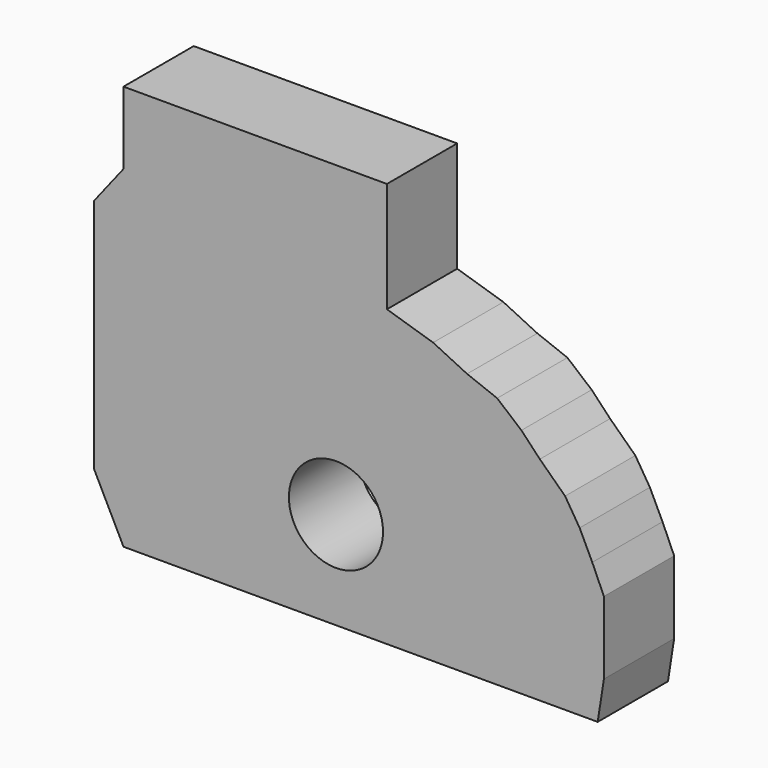
from build123d import *

# Parameters (mm, degrees)
F0_R     = 4.287711
F1_DEPTH = 8


with BuildPart() as f1:
    # F0 (on Front) → F1 (new body)
    with BuildSketch(Plane.XZ):
        Polygon((-26.700001, -21.45), (-24, -26.85), (19.200001, -26.85), (19.764978, -23.227859), (19.764978, -19.868519), (19.764978, -16.597582), (18.704133, -14.210682), (17.554885, -11.823783), (16.22883, -9.702094), (13.930335, -7.492001), (12.250666, -5.723928), (10.040572, -3.867449), (7.300057, -2.806605), (4.205928, -1.303742), (0, 0), (0, 10.05), (-24, 10.05), (-24, 3.45), (-26.700001, 0), align=None)
        with Locations((-4.643226, -17.968567)):
            Circle(F0_R, mode=Mode.SUBTRACT)
    extrude(amount=F1_DEPTH)


solid = f1.part
